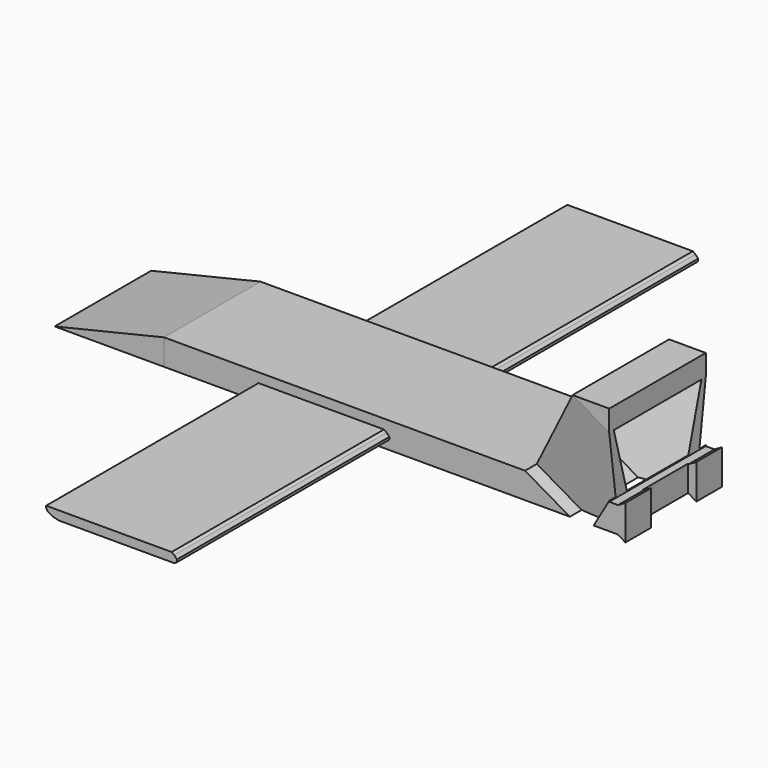
from build123d import *

# Parameters (mm, degrees)
F1_DEPTH  = 25.4
F2_DEPTH  = 81.28
F3_DEPTH  = 25.4
F4_DEPTH  = 25.4
F5_DEPTH  = 25.4
F6_DEPTH  = 55.88
F8_DEPTH  = 15.24
F9_DEPTH  = 15.24
F10_W     = 11.8936536178
F10_H     = 7.3380545364
F11_DEPTH = 1.778
F12_DEPTH = 15.24


with BuildPart() as f1:
    # F0 (on Front) → F1 (new body)
    with BuildSketch(Plane.XZ):
        Polygon((-39.6736972034, 5.4665217176), (-62.6993477345, 0), (-39.6736972034, 0), align=None)
    extrude(amount=F1_DEPTH)


with BuildPart() as f2:
    # F0 (on Front) → F2 (new body)
    with BuildSketch(Plane.XZ):
        Polygon((6.640501786, 3.4507671371), (-19.7810214013, 3.4507671371), (-19.7953563184, 3.0573515687), (-19.4230601192, 2.4368572049), (-18.4923186898, 1.909436658), (-17.1582568437, 1.5681646764), (6.640501786, 1.5681646764), (7.1961563081, 1.5681646764), (7.7546015382, 1.909436658), (7.7546015382, 2.4368572049), (7.1961563081, 3.0573515687), align=None)
    extrude(amount=F2_DEPTH)

    # F0 (on Front) → F6 (join)
    with BuildSketch(Plane.XZ):
        Polygon((6.640501786, 3.4507671371), (-19.7810214013, 3.4507671371), (-19.7953563184, 3.0573515687), (-19.4230601192, 2.4368572049), (-18.4923186898, 1.909436658), (-17.1582568437, 1.5681646764), (6.640501786, 1.5681646764), (7.1961563081, 1.5681646764), (7.7546015382, 1.909436658), (7.7546015382, 2.4368572049), (7.1961563081, 3.0573515687), align=None)
    extrude(amount=-F6_DEPTH)


with BuildPart() as f3:
    # F0 (on Front) → F3 (new body)
    with BuildSketch(Plane.XZ):
        Polygon((36.3422520459, 5.4665217176), (-39.6736972034, 5.4665217176), (-39.6736972034, 0), (55.9076108038, 0), (55.9076108038, 5.4665217176), (54.0679916739, 5.4665217176), align=None)
        Polygon((-19.7953563184, 3.0573515687), (-19.7810214013, 3.4507671371), (6.640501786, 3.4507671371), (7.1961563081, 3.0573515687), (7.7546015382, 2.4368572049), (7.7546015382, 1.909436658), (7.1961563081, 1.5681646764), (6.640501786, 1.5681646764), (-17.1582568437, 1.5681646764), (-18.4923186898, 1.909436658), (-19.4230601192, 2.4368572049), align=None, mode=Mode.SUBTRACT)
    extrude(amount=F3_DEPTH)

    # F0 (on Front) → F4 (join)
    with BuildSketch(Plane.XZ):
        Polygon((46.3458821177, 22.739475593), (36.3422520459, 5.4665217176), (54.0679916739, 5.4665217176), (54.0679916739, 22.739475593), align=None)
    extrude(amount=F4_DEPTH)

    # F0 (on Front) → F5 (join)
    with BuildSketch(Plane.XZ):
        Polygon((55.9076108038, 5.4665217176), (55.9076108038, 0), (57.4713647366, -0.9749676683), (57.4713647366, 6.3630868681), align=None)
    extrude(amount=F5_DEPTH)

    # F7 (on face) → F8 (cut)
    with BuildSketch(Plane(origin=(24.8434570503, 0, -14.388086475), x_dir=(0, -1, 0), z_dir=(-0.8653502685, 0, 0.5011675496))):
        Polygon((3.0607865192, 22.9440134421), (0, 42.9046634865), (0, 22.9440134421), align=None)
    extrude(amount=-F8_DEPTH, mode=Mode.SUBTRACT)

    # F7 (on face) → F9 (cut)
    with BuildSketch(Plane(origin=(24.8434570503, 0, -14.388086475), x_dir=(0, -1, 0), z_dir=(-0.8653502685, 0, 0.5011675496))):
        Polygon((25.4, 22.9440134421), (25.4, 42.9046634865), (22.3062392324, 22.9440134421), align=None)
    extrude(amount=-F9_DEPTH, mode=Mode.SUBTRACT)

    # F10 (on face) → F11 (cut)
    with BuildSketch(Plane.YZ.offset(57.4713647366)):
        with Locations((-12.7, 2.6940595999)):
            Rectangle(F10_W, F10_H)
    extrude(amount=-F11_DEPTH, mode=Mode.SUBTRACT)

    # F7 (on face) → F12 (cut)
    with BuildSketch(Plane(origin=(24.8434570503, 0, -14.388086475), x_dir=(0, -1, 0), z_dir=(-0.8653502685, 0, 0.5011675496))):
        Polygon((24.219032377, 42.9046634865), (1.1461006943, 42.9046634865), (7.4352263473, 22.9440134421), (17.9180707783, 22.9440134421), align=None)
    extrude(amount=-F12_DEPTH, mode=Mode.SUBTRACT)


solid = Compound([f1.part, f2.part, f3.part])
